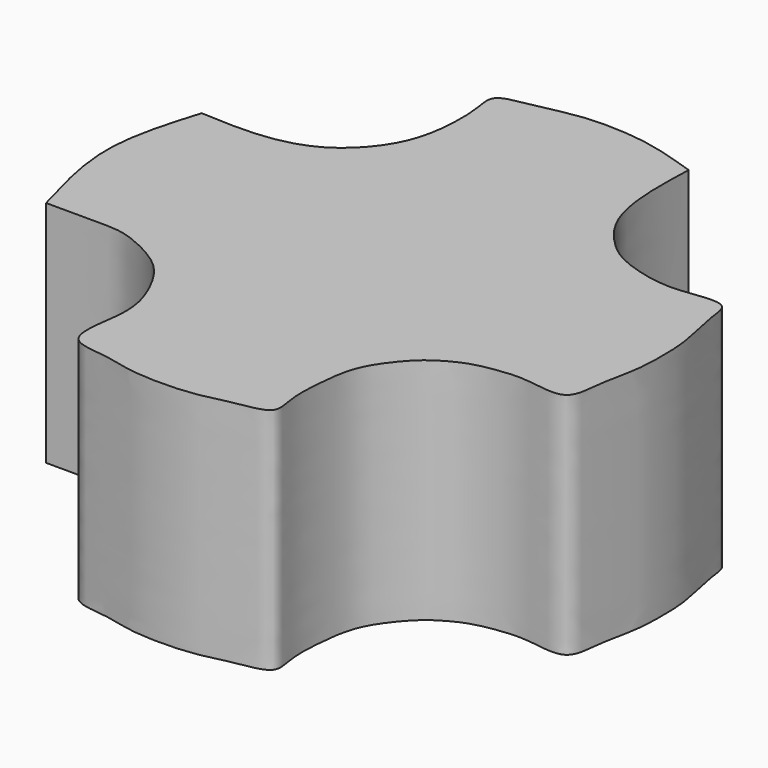
from build123d import *

# Parameters (mm, degrees)
F1_DEPTH = 2


with BuildPart() as f1:
    # F0 (on Top) → F1 (new body)
    with BuildSketch(Plane.XY):
        with BuildLine():
            add(Edge.make_bspline(
                [(-1.4211652778, 1.4211652778), (-1.5050262513, 1.7187833956), (-1.6724451691, 2.3028842284), (-1.5029124894, 2.8518939398), (-1.4211652778, 3.1211661111)],
                knots=[0, 0, 0, 0, 0.5095712537, 1, 1, 1, 1], degree=3))
            add(Edge.make_bspline(
                [(-1.4211652778, 1.4211652778), (-1.3220610356, 1.4210221788), (-1.1321439719, 1.4207479529), (-0.8753722121, 1.4225985634), (-0.6866113917, 1.4063736021), (-0.3283772459, 1.2344459983), (-0.1573615516, 1.031619205), (-0.022086664, 0.7544902966), (0.0300015106, 0.4614201196), (-0.1023013803, -0.0724684394), (0.2989155622, -0.0758865834), (0.5600141917, -0.1597147282), (0.8960007904, -0.1729896095), (1.1861495006, -0.1483499234), (1.4294893351, -0.0750588997), (1.7597351687, -0.0402595743), (1.6820193196, 0.207084502), (1.6964835034, 0.5073405853), (1.7284703083, 0.7592592383), (1.8044474553, 0.9490881182), (1.984780137, 1.1775045867), (2.1263697957, 1.2799650969), (2.3061982401, 1.3782200065), (2.5646924248, 1.4243891577), (2.7894447451, 1.4372385673), (3.1816070607, 1.345163689), (3.1889328696, 1.6971399703), (3.2743798622, 2.0205013033), (3.2758405756, 2.3070654626), (3.2707739237, 2.5704292461), (3.1705942465, 2.9204801593), (3.1700373042, 3.1813133194), (2.7828622743, 3.1086310511), (2.5351624436, 3.1110216852), (2.1847075834, 3.2129972602), (1.996222559, 3.3549146623), (1.7634503034, 3.625033317), (1.6818233342, 4.0513263746), (1.6937898254, 4.3745383305), (1.7000008333, 4.5422961111)],
                knots=[0, 0, 0, 0, 0.0273605905, 0.0524320947, 0.0745076412, 0.1056108167, 0.1318649214, 0.158948127, 0.1874687016, 0.220995097, 0.2482860623, 0.2755720453, 0.3045111481, 0.3315301836, 0.3578655515, 0.3837385363, 0.4059679792, 0.434252013, 0.4594532962, 0.4822711791, 0.5090972104, 0.530231005, 0.5527300135, 0.5781274322, 0.6031996615, 0.6315546276, 0.6576667534, 0.6876672756, 0.714256594, 0.7402463844, 0.7710533559, 0.7932728015, 0.8216277676, 0.8482190477, 0.8777914221, 0.9023565188, 0.9315770045, 0.9644861842, 1, 1, 1, 1], degree=3))
            add(Edge.make_bspline(
                [(-1.4211652778, 3.1211661111), (-1.2280427983, 3.1116163203), (-0.860653762, 3.0939381794), (-0.4063066053, 3.2295914257), (-0.0960655792, 3.5735849772), (0.0092351291, 3.9163695603), (0.0185824614, 4.3258956527), (-0.055169106, 4.5798926122), (0.2665534162, 4.6178113553), (0.6232872167, 4.7135952514), (0.9693201666, 4.7119031567), (1.2926077441, 4.6753346985), (1.5576261992, 4.5882282074), (1.7000008333, 4.5422961111)],
                knots=[0, 0, 0, 0, 0.1117445823, 0.2125923647, 0.3107430927, 0.4000660841, 0.4960442665, 0.5626441507, 0.6379036869, 0.7311412958, 0.8178947498, 0.9022950941, 1, 1, 1, 1], degree=3))
        make_face()
    extrude(amount=F1_DEPTH)


solid = f1.part
